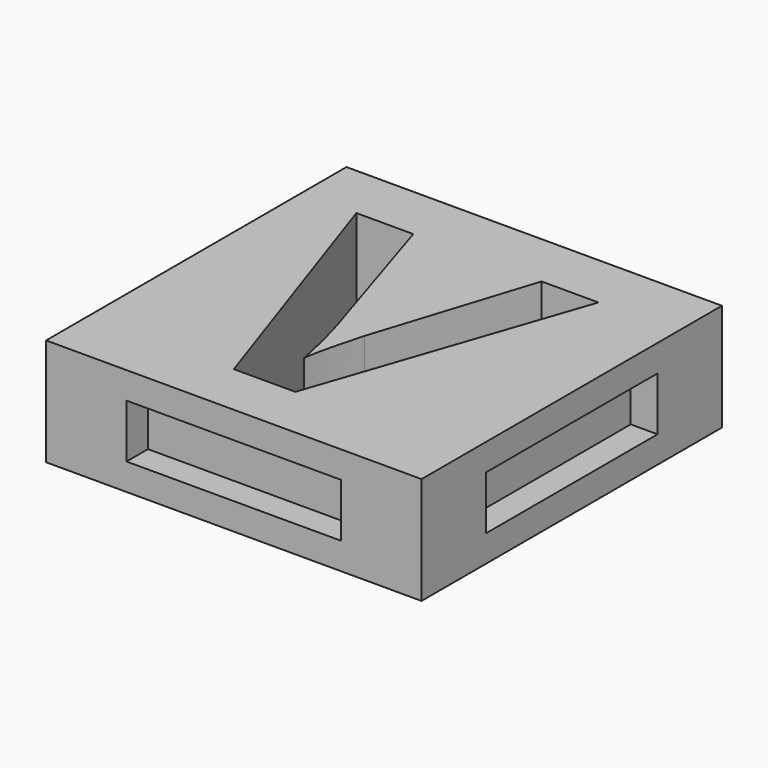
from build123d import *

# Parameters (mm, degrees)
F0_W     = 35.56
F0_H     = 35.56
F1_DEPTH = 5.08
F2_W     = 19.812
F2_H     = 4.572
F3_DEPTH = 2.54
F4_W     = 19.812
F4_H     = 4.572
F5_DEPTH = 2.54
F6_W     = 20.32
F6_H     = 5.08
F7_DEPTH = 2.54
F8_W     = 20.32
F8_H     = 5.08
F9_DEPTH = 2.54


with BuildPart() as f1:
    # F0 (on Top) → F1 (new body, symmetric)
    with BuildSketch(Plane.XY):
        Rectangle(F0_W, F0_H)
        with BuildLine():
            Line((0.1598524306, -2.5025173611), (4.9278645833, 12.4850260417))
            Line((4.9278645833, 12.4850260417), (10.31875, 12.4850260417))
            Line((10.31875, 12.4850260417), (1.7583767361, -12.7))
            Line((1.7583767361, -12.7), (-4.0624565972, -12.7))
            Line((-4.0624565972, -12.7), (-12.6062934028, 12.4850260417))
            Line((-12.6062934028, 12.4850260417), (-7.2154079861, 12.4850260417))
            Line((-7.2154079861, 12.4850260417), (-2.4749565972, -2.5025173611))
            add(Edge.make_bspline(
                [(-2.4749565972, -2.5025173611), (-2.08359375, -3.8309461806), (-1.6591579861, -5.5948350694)],
                knots=[0, 0, 0, 1, 1, 1], degree=2))
            add(Edge.make_bspline(
                [(-1.6591579861, -5.5948350694), (-1.2347222222, -7.3587239583), (-1.1355034722, -8.0477430556)],
                knots=[0, 0, 0, 1, 1, 1], degree=2))
            add(Edge.make_bspline(
                [(-1.1355034722, -8.0477430556), (-0.942578125, -6.4657552083), (0.1598524306, -2.5025173611)],
                knots=[0, 0, 0, 1, 1, 1], degree=2))
        make_face(mode=Mode.SUBTRACT)
    extrude(amount=F1_DEPTH, both=True)

    # F2 (on face) → F3 (join)
    with BuildSketch(Plane(origin=(0, 17.78, 0), x_dir=(-1, 0, 0), z_dir=(0, 1, 0))):
        Rectangle(F2_W, F2_H)
    extrude(amount=F3_DEPTH)

    # F4 (on face) → F5 (join)
    with BuildSketch(Plane(origin=(-17.78, 0, 0), x_dir=(0, -1, 0), z_dir=(-1, 0, 0))):
        Rectangle(F4_W, F4_H)
    extrude(amount=F5_DEPTH)

    # F6 (on face) → F7 (cut)
    with BuildSketch(Plane.XZ.offset(17.78)):
        Rectangle(F6_W, F6_H)
    extrude(amount=-F7_DEPTH, mode=Mode.SUBTRACT)

    # F8 (on face) → F9 (cut)
    with BuildSketch(Plane.YZ.offset(17.78)):
        Rectangle(F8_W, F8_H)
    extrude(amount=-F9_DEPTH, mode=Mode.SUBTRACT)


solid = f1.part
